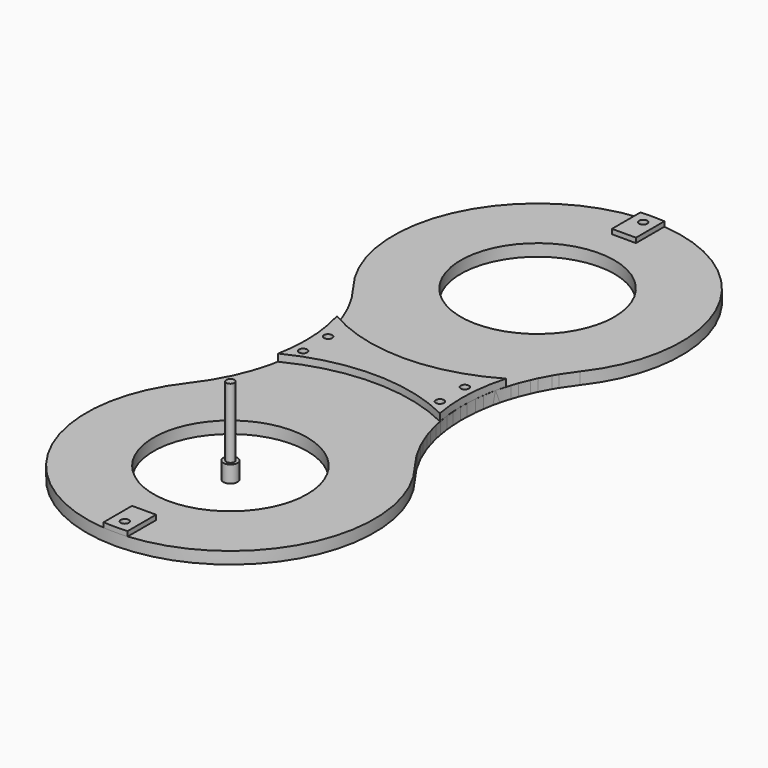
from build123d import *

# Parameters (mm, degrees)
CYLINDER_R               = 2.95
CYLINDER_DEPTH           = 7
CYLINDER001_R            = 1.7
CYLINDER001_DEPTH        = 30
PAD023_DEPTH             = 2
CLONE185_PLACEMENT_ANGLE = 180
SKETCH031_R              = 32
PAD022_DEPTH             = 5
SKETCH029_R              = 75
PAD049_DEPTH             = 35
SKETCH023_R              = 1.7
PAD_DEPTH                = 3


with BuildPart() as m3bolthead:
    # Cylinder → Cylinder (new body)
    with BuildSketch(Plane.XY):
        Circle(CYLINDER_R)
    extrude(amount=CYLINDER_DEPTH)


with BuildPart() as m3bolt:
    # Cylinder001 → Cylinder001 (new body)
    with BuildSketch(Plane.XY.offset(6)):
        Circle(CYLINDER001_R)
    extrude(amount=CYLINDER001_DEPTH)

    # Fusion: union M3BoltHead
    add(m3bolthead.part)


with BuildPart() as obj1:
    # Sketch032 → Pad023 (new body)
    with BuildSketch(Plane.XY):
        with BuildLine():
            ThreePointArc((5, 59.791304), (0, 60), (-5, 59.791304))
            Line((-5, 45), (-5, 59.791304))
            Line((5, 45), (-5, 45))
            Line((5, 59.791304), (5, 45))
        make_face()
    extrude(amount=PAD023_DEPTH)


with BuildPart() as clone_of_m3bolt057:
    # Clone191 base: copy of M3Bolt
    add(m3bolt.part)


with BuildPart() as clone_of_m3bolt057_1:
    # Clone191 placement: moved
    add(clone_of_m3bolt057.part.moved(Location((28.5, 86.5, -31))))


with BuildPart() as clone_of_m3bolt056:
    # Clone190 base: copy of M3Bolt
    add(m3bolt.part)


with BuildPart() as clone_of_m3bolt056_1:
    # Clone190 placement: moved
    add(clone_of_m3bolt056.part.moved(Location((-28.5, 73.5, -31))))


with BuildPart() as clone_of_m3bolt058:
    # Clone192 base: copy of M3Bolt
    add(m3bolt.part)


with BuildPart() as clone_of_m3bolt058_1:
    # Clone192 placement: moved
    add(clone_of_m3bolt058.part.moved(Location((28.5, 73.5, -31))))


with BuildPart() as clone_of_m3bolt053:
    # Clone186 base: copy of M3Bolt
    add(m3bolt.part)


with BuildPart() as clone_of_m3bolt053_1:
    # Clone186 placement: moved
    add(clone_of_m3bolt053.part.moved(Location((0, 215, -4))))


with BuildPart() as clone_of_m3bolt054:
    # Clone187 base: copy of M3Bolt
    add(m3bolt.part)


with BuildPart() as clone_of_m3bolt054_1:
    # Clone187 placement: moved
    add(clone_of_m3bolt054.part.moved(Location((0, -55, -4))))


with BuildPart() as fusion070:
    # Clone189 base: copy of M3Bolt
    add(m3bolt.part)


with BuildPart() as fusion070_1:
    # Clone189 placement: moved
    add(fusion070.part.moved(Location((-28.5, 86.5, -31))))

    # Fusion070: union Clone of M3Bolt057, Clone of M3Bolt056, Clone of M3Bolt058, Clone of M3Bolt053, Clone of M3Bolt054
    add(clone_of_m3bolt057_1.part)
    add(clone_of_m3bolt056_1.part)
    add(clone_of_m3bolt058_1.part)
    add(clone_of_m3bolt053_1.part)
    add(clone_of_m3bolt054_1.part)


with BuildPart() as obj2:
    # Clone185 base: copy of obj1
    add(obj1.part)


with BuildPart() as obj2_1:
    # Clone185 placement: moved
    add(obj2.part.moved(Location((0, 0, 5))).rotate(Axis((0, 0, 5), (0, 0, 1)), CLONE185_PLACEMENT_ANGLE))


with BuildPart() as obj3:
    # Clone184 base: copy of obj1
    add(obj1.part)


with BuildPart() as obj3_1:
    # Clone184 placement: moved
    add(obj3.part.moved(Location((0, 160, 5))))


with BuildPart() as obj4:
    # Sketch031 → Pad022 (new body)
    with BuildSketch(Plane.XY):
        with BuildLine():
            ThreePointArc((-47.293593, 36.92311), (-1.1e-05, -60), (47.293607, 36.923092))
            ThreePointArc((47.293593, 123.07689), (32.469508, 79.999989), (47.293607, 36.923092))
            ThreePointArc((47.293593, 123.07689), (0, 220), (-47.293593, 123.07689))
            ThreePointArc((-47.293593, 36.92311), (-32.469508, 80), (-47.293593, 123.07689))
        make_face()
        Circle(SKETCH031_R, mode=Mode.SUBTRACT)
        with Locations((0, 160)):
            Circle(SKETCH031_R, mode=Mode.SUBTRACT)
    extrude(amount=PAD022_DEPTH)

    # Fusion067: union obj2, obj3
    add(obj2_1.part)
    add(obj3_1.part)

    # Cut059: cut Fusion070
    add(fusion070_1.part, mode=Mode.SUBTRACT)


with BuildPart() as pad049:
    # Sketch029 → Pad049 (new body)
    with BuildSketch(Plane.XY.offset(-0.25)):
        with Locations((0, 160)):
            Circle(SKETCH029_R)
    extrude(amount=PAD049_DEPTH)


with BuildPart() as obj5:
    # Clone base: copy of obj4
    add(obj4.part)

    # Cut: cut Pad049
    add(pad049.part, mode=Mode.SUBTRACT)


with BuildPart() as pad:
    # Sketch023 → Pad (new body)
    with BuildSketch(Plane.XY.offset(5)):
        with BuildLine():
            ThreePointArc((33.68542, 67.009644), (0, 75), (-33.68542, 67.009644))
            ThreePointArc((-33.68542, 67.009644), (-32.550072, 83.357454), (-35.246593, 99.521262))
            ThreePointArc((-35.246593, 99.521262), (0, 90), (35.246593, 99.521262))
            ThreePointArc((35.246593, 99.521262), (32.550072, 83.357454), (33.68542, 67.009644))
        make_face()
        with Locations((-28.5, 73.5)):
            Circle(SKETCH023_R, mode=Mode.SUBTRACT)
        with Locations((-28.5, 86.5)):
            Circle(SKETCH023_R, mode=Mode.SUBTRACT)
        with Locations((28.5, 86.5)):
            Circle(SKETCH023_R, mode=Mode.SUBTRACT)
        with Locations((28.5, 73.5)):
            Circle(SKETCH023_R, mode=Mode.SUBTRACT)
    extrude(amount=PAD_DEPTH)


with BuildPart() as obj6:
    # Clone194 base: copy of obj5
    add(obj5.part)


with BuildPart() as obj7:
    # Clone193 base: copy of obj4
    add(obj4.part)

    # Cut060: cut obj6
    add(obj6.part, mode=Mode.SUBTRACT)

    # Fusion071: union Pad
    add(pad.part)


solid = Compound([m3bolt.part, obj1.part, obj4.part, obj5.part, obj7.part])
